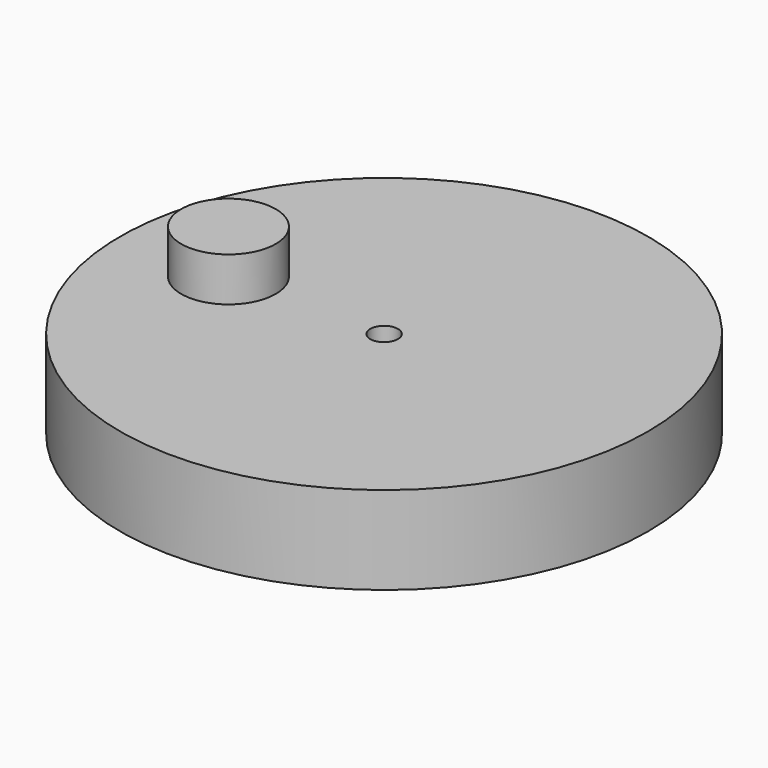
from build123d import *

# Parameters (mm, degrees)
F0_R     = 19.05
F0_R_2   = 1
F1_DEPTH = 6.35
F2_R     = 3.411714
F3_DEPTH = 3.175


with BuildPart() as f1:
    # F0 (on Top) → F1 (new body)
    with BuildSketch(Plane.XY):
        Circle(F0_R)
        Circle(F0_R_2, mode=Mode.SUBTRACT)
    extrude(amount=F1_DEPTH)

    # F2 (on face) → F3 (join)
    with BuildSketch(Plane.XY.offset(6.35)):
        with Locations((-11.232098, 0)):
            Circle(F2_R)
    extrude(amount=F3_DEPTH)


solid = f1.part
